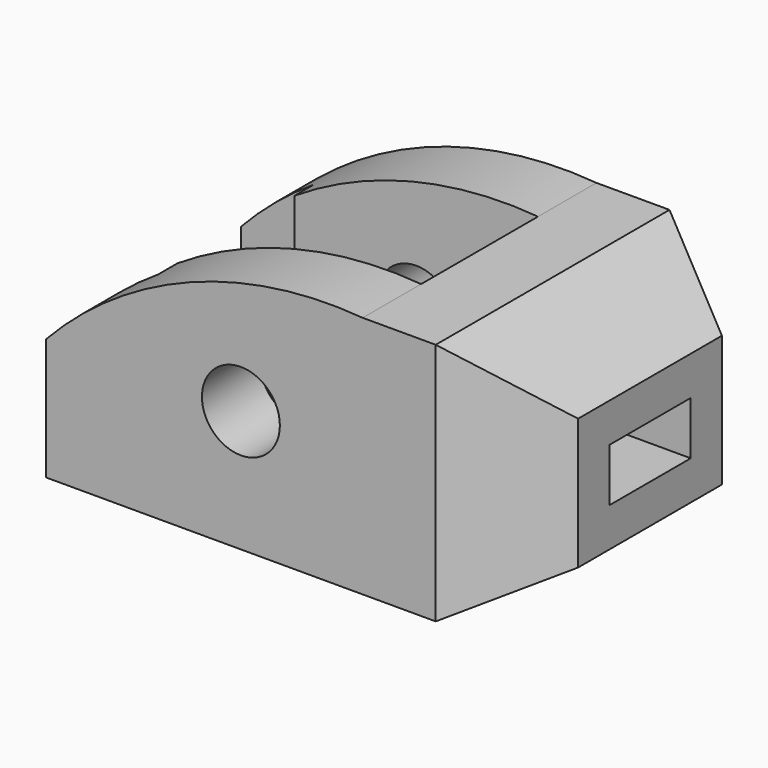
from build123d import *

# Parameters (mm, degrees)
F0_R     = 8
F1_DEPTH = 60
F2_W     = 50
F2_H     = 30
F3_DEPTH = 50.2774346977
F4_DEPTH = 60
F6_DEPTH = 50.2774346977
F7_W     = 20.9059892324
F7_H     = 10.9059892324
F8_DEPTH = 100.001


with BuildPart() as f1:
    # F0 (on Front) → F1 (new body)
    with BuildSketch(Plane.XZ):
        with BuildLine():
            Line((-80, 25), (-80, 0))
            Line((-80, 0), (0, 0))
            Line((0, 0), (0, 50))
            Line((0, 50), (-15, 50))
            ThreePointArc((-15, 50), (-50.3631089207, 44.9440831939), (-80, 25))
        make_face()
        with Locations((-40, 25)):
            Circle(F0_R, mode=Mode.SUBTRACT)
    extrude(amount=-F1_DEPTH)

    # F2 (on face) → F3 (cut, through all)
    with BuildSketch(Plane(origin=(0, 0, 0), x_dir=(1, 0, 0), z_dir=(0, 0, -1))):
        Polygon((-80, -50), (-65, -50), (-65, -45), (-65, -15), (-65, -10), (-80, -10), align=None)
        with Locations((-40, -30)):
            Rectangle(F2_W, F2_H)
    extrude(amount=-F3_DEPTH, mode=Mode.SUBTRACT)

    # F0 (on Front) → F4 (join)
    with BuildSketch(Plane.XZ):
        Polygon((0, 50), (0, 0), (20, 11.5470053838), (20, 38.4529946162), align=None)
    extrude(amount=-F4_DEPTH)

    # F5 (on Top) → F6 (cut, through all)
    with BuildSketch(Plane.XY):
        Polygon((20, 11.5470053838), (0, 0), (20, 0), align=None)
        Polygon((20, 60), (0, 60), (20, 48.4529946162), align=None)
    extrude(amount=F6_DEPTH, mode=Mode.SUBTRACT)

    # F7 (on face) → F8 (cut, through all)
    with BuildSketch(Plane.YZ.offset(20)):
        with Locations((30, 25)):
            Rectangle(F7_W, F7_H)
    extrude(amount=-F8_DEPTH, mode=Mode.SUBTRACT)


solid = f1.part
